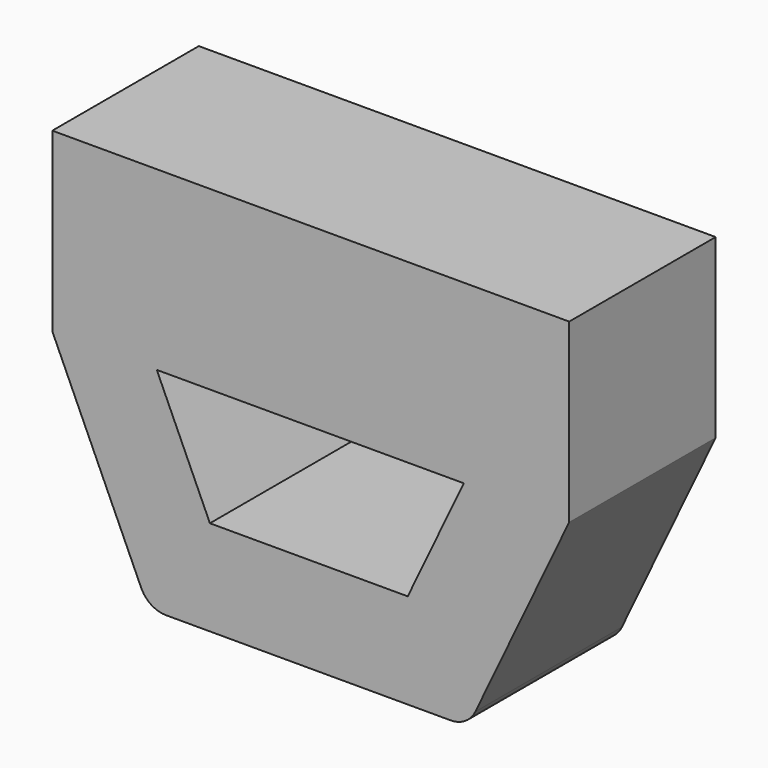
from build123d import *

# Parameters (mm, degrees)
F1_DEPTH = 25.4


with BuildPart() as f1:
    # F0 (on Front) → F1 (new body)
    with BuildSketch(Plane.XZ):
        Polygon((35.668362, 43.594655), (-36.028642, 43.594655), (-36.028642, 19.095179), (-21.538323, 19.095179), (21.042599, 19.095179), (35.668362, 19.095179), align=None)
        with BuildLine():
            Line((-21.538323, 19.095179), (-36.028642, 19.095179))
            Line((-36.028642, 19.095179), (-23.710124, -8.205322))
            ThreePointArc((-23.710124, -8.205322), (-22.304387, -9.838812), (-20.237289, -10.448311))
            Line((-20.237289, -10.448311), (19.210294, -10.448311))
            ThreePointArc((19.210294, -10.448311), (21.245158, -9.859402), (22.650968, -8.274729))
            Line((22.650968, -8.274729), (35.668362, 19.095179))
            Line((35.668362, 19.095179), (21.042599, 19.095179))
            Line((21.042599, 19.095179), (13.273281, 2.759688))
            Line((13.273281, 2.759688), (-14.16743, 2.759688))
            Line((-14.16743, 2.759688), (-21.538323, 19.095179))
        make_face()
    extrude(amount=F1_DEPTH)


solid = f1.part
